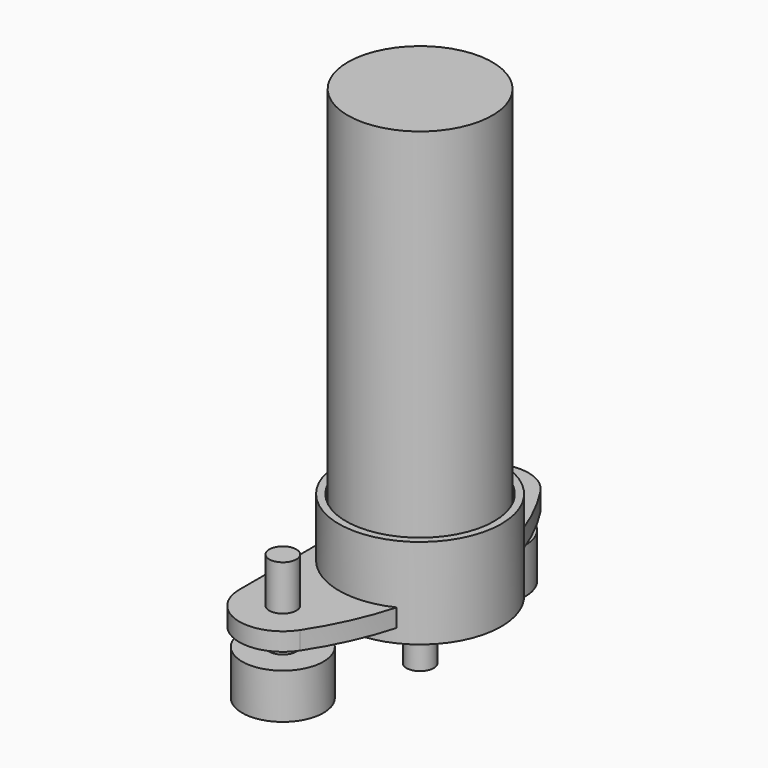
from build123d import *

# Parameters (mm, degrees)
CYLINDER002_R          = 3
CYLINDER002_DEPTH      = 2.5
CYLINDER004_R          = 1
CYLINDER004_DEPTH      = 8.5
CYLINDER003_R          = 1
CYLINDER003_DEPTH      = 8.5
CYLINDER_R             = 8
CYLINDER_DEPTH         = 48
CYLINDER001_R          = 1.5
CYLINDER001_DEPTH      = 8
FUSION_PLACEMENT_ANGLE = 44.999934
EXTRUDE_DEPTH          = 10
CYLINDER006_R          = 1.5
CYLINDER006_DEPTH      = 10
EXTRUDE001_DEPTH       = 10
CYLINDER005_R          = 1.5
CYLINDER005_DEPTH      = 10
EXTRUDE002_DEPTH       = 5
CYLINDER010_R          = 1.5
CYLINDER010_DEPTH      = 10
CYLINDER011_R          = 1.5
CYLINDER011_DEPTH      = 10
CYLINDER009_R          = 3.2
CYLINDER009_DEPTH      = 10
CYLINDER008_R          = 8.2
CYLINDER008_DEPTH      = 10
EXTRUDE003_DEPTH       = 2
CYLINDER007_R          = 9
CYLINDER007_DEPTH      = 10


with BuildPart() as bearing:
    # Cylinder002 → Cylinder002 (new body)
    with BuildSketch(Plane.XY.offset(-2)):
        Circle(CYLINDER002_R)
    extrude(amount=CYLINDER002_DEPTH)


with BuildPart() as cylinder004:
    # Cylinder004 → Cylinder004 (new body)
    with BuildSketch(Plane(origin=(-5.5, 0, -8), x_dir=(1, 0, 0), z_dir=(0, 0, 1))):
        Circle(CYLINDER004_R)
    extrude(amount=CYLINDER004_DEPTH)


with BuildPart() as cylinder003:
    # Cylinder003 → Cylinder003 (new body)
    with BuildSketch(Plane(origin=(5.5, 0, -8), x_dir=(1, 0, 0), z_dir=(0, 0, 1))):
        Circle(CYLINDER003_R)
    extrude(amount=CYLINDER003_DEPTH)


with BuildPart() as cut001:
    # Cylinder → Cylinder (new body)
    with BuildSketch(Plane.XY):
        Circle(CYLINDER_R)
    extrude(amount=CYLINDER_DEPTH)

    # Cut: cut Cylinder003
    add(cylinder003.part, mode=Mode.SUBTRACT)

    # Cut001: cut Cylinder004
    add(cylinder004.part, mode=Mode.SUBTRACT)


with BuildPart() as fusion:
    # Cylinder001 → Cylinder001 (new body)
    with BuildSketch(Plane.XY.offset(-8)):
        Circle(CYLINDER001_R)
    extrude(amount=CYLINDER001_DEPTH)

    # Fusion: union bearing, Cut001
    add(bearing.part)
    add(cut001.part)


with BuildPart() as fusion_1:
    # Fusion placement: moved
    add(fusion.part.rotate(Axis((0, 0, 0), (0, 0, 1)), FUSION_PLACEMENT_ANGLE))


with BuildPart() as obj1:
    # Sketch → Extrude (new body)
    with BuildSketch(Plane.XY):
        Polygon((-1.6, 2.771281), (1.6, 2.771281), (3.2, 0), (1.6, -2.771281), (-1.6, -2.771281), (-3.2, 0), align=None)
    extrude(amount=EXTRUDE_DEPTH)


with BuildPart() as obj1_1:
    # Extrude placement: moved
    add(obj1.part.moved(Location((0, 14, -12))))


with BuildPart() as obj2:
    # Cylinder006 → Cylinder006 (new body)
    with BuildSketch(Plane(origin=(0, 14, -3), x_dir=(1, 0, 0), z_dir=(0, 0, 1))):
        Circle(CYLINDER006_R)
    extrude(amount=CYLINDER006_DEPTH)

    # Fusion001: union obj1
    add(obj1_1.part)


with BuildPart() as obj2_1:
    # Fusion001 placement: moved
    add(obj2.part.moved(Location((-4, 0, 0))))


with BuildPart() as obj3:
    # Sketch → Extrude001 (new body)
    with BuildSketch(Plane.XY):
        Polygon((-1.6, 2.771281), (1.6, 2.771281), (3.2, 0), (1.6, -2.771281), (-1.6, -2.771281), (-3.2, 0), align=None)
    extrude(amount=EXTRUDE001_DEPTH)


with BuildPart() as obj3_1:
    # Extrude001 placement: moved
    add(obj3.part.moved(Location((0, -14, -12))))


with BuildPart() as obj4:
    # Cylinder005 → Cylinder005 (new body)
    with BuildSketch(Plane(origin=(0, -14, -3), x_dir=(1, 0, 0), z_dir=(0, 0, 1))):
        Circle(CYLINDER005_R)
    extrude(amount=CYLINDER005_DEPTH)

    # Fusion002: union obj3
    add(obj3_1.part)


with BuildPart() as obj4_1:
    # Fusion002 placement: moved
    add(obj4.part.moved(Location((-4, 0, 0))))


with BuildPart() as obj5:
    # Sketch001 → Extrude002 (new body)
    with BuildSketch(Plane.XY):
        with BuildLine():
            ThreePointArc((-10.813384, 2.017605), (-11, -3e-06), (-10.813383, -2.01761))
            Line((-10.813383, -2.01761), (-8.423655, -14.825397))
            ThreePointArc((-8.423655, -14.825397), (-1.661375, -17.844585), (-1.232891, -10.451323))
            Line((-1.232891, -10.451323), (-5.534189, -7.097377))
            ThreePointArc((-5.534193, 7.097373), (-9, -3e-06), (-5.534189, -7.097377))
            Line((-1.232904, 10.451313), (-5.534193, 7.097373))
            ThreePointArc((-1.232904, 10.451313), (-1.661374, 17.844584), (-8.423657, 14.825384))
            Line((-8.423657, 14.825384), (-10.813384, 2.017605))
        make_face()
    extrude(amount=EXTRUDE002_DEPTH)


with BuildPart() as obj5_1:
    # Extrude002 placement: moved
    add(obj5.part.moved(Location((0, 0, -5))))

    # Cut002: cut obj4
    add(obj4_1.part, mode=Mode.SUBTRACT)

    # Cut003: cut obj2
    add(obj2_1.part, mode=Mode.SUBTRACT)


with BuildPart() as obj5_2:
    # Cut003 placement: moved
    add(obj5_1.part.moved(Location((0, 0, -2))))


with BuildPart() as obj6:
    # Cylinder010 → Cylinder010 (new body)
    with BuildSketch(Plane(origin=(-4, 14, -3), x_dir=(1, 0, 0), z_dir=(0, 0, 1))):
        Circle(CYLINDER010_R)
    extrude(amount=CYLINDER010_DEPTH)


with BuildPart() as obj7:
    # Cylinder011 → Cylinder011 (new body)
    with BuildSketch(Plane(origin=(-4, -14, -3), x_dir=(1, 0, 0), z_dir=(0, 0, 1))):
        Circle(CYLINDER011_R)
    extrude(amount=CYLINDER011_DEPTH)


with BuildPart() as oversizemotorbearing:
    # Cylinder009 → Cylinder009 (new body)
    with BuildSketch(Plane.XY.offset(-6)):
        Circle(CYLINDER009_R)
    extrude(amount=CYLINDER009_DEPTH)


with BuildPart() as oversizemotor:
    # Cylinder008 → Cylinder008 (new body)
    with BuildSketch(Plane.XY):
        Circle(CYLINDER008_R)
    extrude(amount=CYLINDER008_DEPTH)

    # Fusion004: union OversizeMotorBearing
    add(oversizemotorbearing.part)


with BuildPart() as motortopbracket:
    # Sketch002 → Extrude003 (new body)
    with BuildSketch(Plane.XY):
        with BuildLine():
            ThreePointArc((0.020318, 16.642461), (-5.379113, 18.609078), (-8.810983, 13.999989))
            Line((-8.810983, 13.999989), (-8.810983, -13.999978))
            ThreePointArc((-8.810983, -13.999978), (-5.379107, -18.60908), (0.02033, -16.642442))
            ThreePointArc((0.02033, -16.642442), (5, 1.1e-05), (0.020318, 16.642461))
        make_face()
    extrude(amount=EXTRUDE003_DEPTH)


with BuildPart() as motortopbracket002:
    # Cylinder007 → Cylinder007 (new body)
    with BuildSketch(Plane.XY.offset(-1.5)):
        Circle(CYLINDER007_R)
    extrude(amount=CYLINDER007_DEPTH)

    # Fusion005: union MotorTopBracket
    add(motortopbracket.part)

    # Cut004: cut OversizeMotor
    add(oversizemotor.part, mode=Mode.SUBTRACT)


solid = Compound([fusion_1.part, obj5_2.part, obj6.part, obj7.part, motortopbracket002.part])
